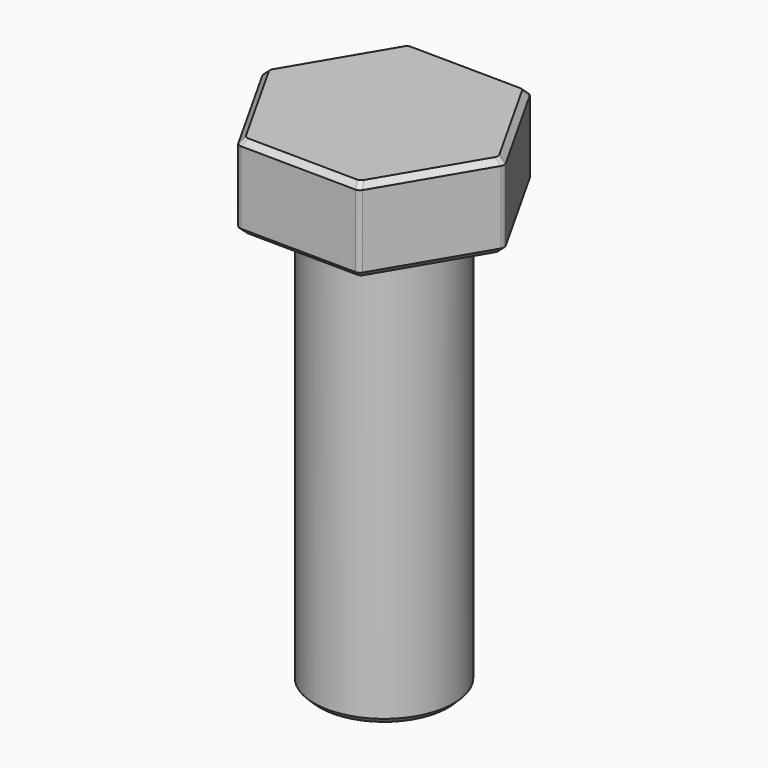
from build123d import *

# Parameters (mm, degrees)
F0_W     = 3.175
F0_H     = 19.05
F3_DEPTH = 3.81
F4_SIZE  = 0.254
F5_R     = 0.254
F6_R     = 0.3556
F7_R     = 0.3556
F8_SIZE  = 0.254


with BuildPart() as f1:
    # F0 (on Front) → F1 (revolve)
    with BuildSketch(Plane.XZ):
        with Locations((-1.5875, 9.525)):
            Rectangle(F0_W, F0_H)
    revolve(axis=Axis((0, 0, 9.525), (0, 0, -1)))

    # F8
    f8_edges = [f1.edges().sort_by_distance(p)[0] for p in [
        (3.175, 0, 0),
    ]]
    chamfer(f8_edges, length=F8_SIZE)


with BuildPart() as f3:
    # F2 (on face) → F3 (new body)
    with BuildSketch(Plane.XY.offset(19.05)):
        Polygon((2.7239143667, -4.8431521735), (5.55625, -0.0625970475), (2.8323356333, 4.780555126), (-2.7239143667, 4.8431521735), (-5.55625, 0.0625970475), (-2.8323356333, -4.780555126), align=None)
    extrude(amount=F3_DEPTH)

    # F4
    f4_edges = [f3.edges().sort_by_distance(p)[0] for p in [
        (-4.140082, 2.452875, 22.86),
        (-0.054211, -4.811854, 22.86),
        (-4.194293, -2.358979, 19.05),
        (-4.194293, -2.358979, 22.86),
        (0.054211, 4.811854, 22.86),
        (4.194293, 2.358979, 22.86),
        (4.140082, -2.452875, 22.86),
        (-4.140082, 2.452875, 19.05),
        (0.054211, 4.811854, 19.05),
        (4.194293, 2.358979, 19.05),
        (4.140082, -2.452875, 19.05),
        (-0.054211, -4.811854, 19.05),
    ]]
    chamfer(f4_edges, length=F4_SIZE)

    # F5
    f5_edges = [f3.edges().sort_by_distance(p)[0] for p in [
        (-2.832336, -4.780555, 20.955),
        (2.723914, -4.843152, 20.955),
        (-5.55625, 0.062597, 20.955),
        (-2.723914, 4.843152, 20.955),
        (2.832336, 4.780555, 20.955),
        (5.55625, -0.062597, 20.955),
    ]]
    fillet(f5_edges, radius=F5_R)

    # F6
    f6_edges = [f3.edges().sort_by_distance(p)[0] for p in [
        (-5.389967, 0.060724, 22.750015),
        (-2.642395, 4.69821, 22.750015),
        (2.747572, 4.637486, 22.750015),
        (5.389967, -0.060724, 22.750015),
        (2.642395, -4.69821, 22.750015),
        (-2.747572, -4.637486, 22.750015),
    ]]
    fillet(f6_edges, radius=F6_R)

    # F7
    f7_edges = [f3.edges().sort_by_distance(p)[0] for p in [
        (-2.747572, -4.637486, 19.159985),
        (-5.389967, 0.060724, 19.159985),
        (-2.642395, 4.69821, 19.159985),
        (2.747572, 4.637486, 19.159985),
        (5.389967, -0.060724, 19.159985),
        (2.642395, -4.69821, 19.159985),
    ]]
    fillet(f7_edges, radius=F7_R)


solid = Compound([f1.part, f3.part])
